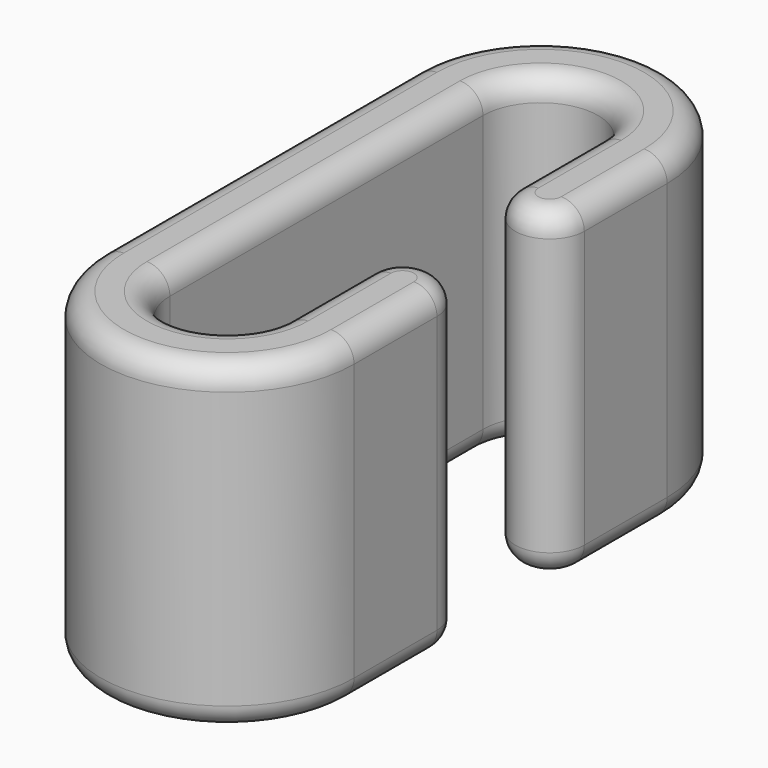
from build123d import *

# Parameters (mm, degrees)
F1_DEPTH = 14
F2_R     = 1


with BuildPart() as f1:
    # F0 (on Top) → F1 (new body)
    with BuildSketch(Plane.XY):
        with BuildLine():
            Line((0, -8.5), (0, 0))
            Line((0, 0), (0, 8.5))
            ThreePointArc((0, 8.5), (2.5, 11), (5, 8.5))
            Line((5, 8.5), (5, 4))
            ThreePointArc((5, 4), (6.5, 2.5), (8, 4))
            Line((8, 4), (8, 8.5))
            ThreePointArc((8, 8.5), (2.5, 14), (-3, 8.5))
            Line((-3, 8.5), (-3, 0))
            Line((-3, 0), (-3, -8.5))
            ThreePointArc((-3, -8.5), (2.5, -14), (8, -8.5))
            Line((8, -8.5), (8, -4))
            ThreePointArc((8, -4), (6.5, -2.5), (5, -4))
            Line((5, -4), (5, -8.5))
            ThreePointArc((5, -8.5), (2.5, -11), (0, -8.5))
        make_face()
    extrude(amount=F1_DEPTH)

    # F2
    f2_edges = [f1.edges().sort_by_distance(p)[0] for p in [
        (2.5, -14, 14),
        (8, -6.25, 14),
        (6.5, -2.5, 14),
        (5, -6.25, 14),
        (2.5, -11, 14),
        (0, 0, 14),
        (2.5, 11, 14),
        (5, 6.25, 14),
        (6.5, 2.5, 14),
        (8, 6.25, 14),
        (2.5, 14, 14),
        (-3, 0, 14),
        (2.5, -14, 0),
        (8, -6.25, 0),
        (6.5, -2.5, 0),
        (5, -6.25, 0),
        (2.5, -11, 0),
        (0, 0, 0),
        (2.5, 11, 0),
        (5, 6.25, 0),
        (6.5, 2.5, 0),
        (8, 6.25, 0),
        (2.5, 14, 0),
        (-3, 0, 0),
    ]]
    fillet(f2_edges, radius=F2_R)


solid = f1.part
